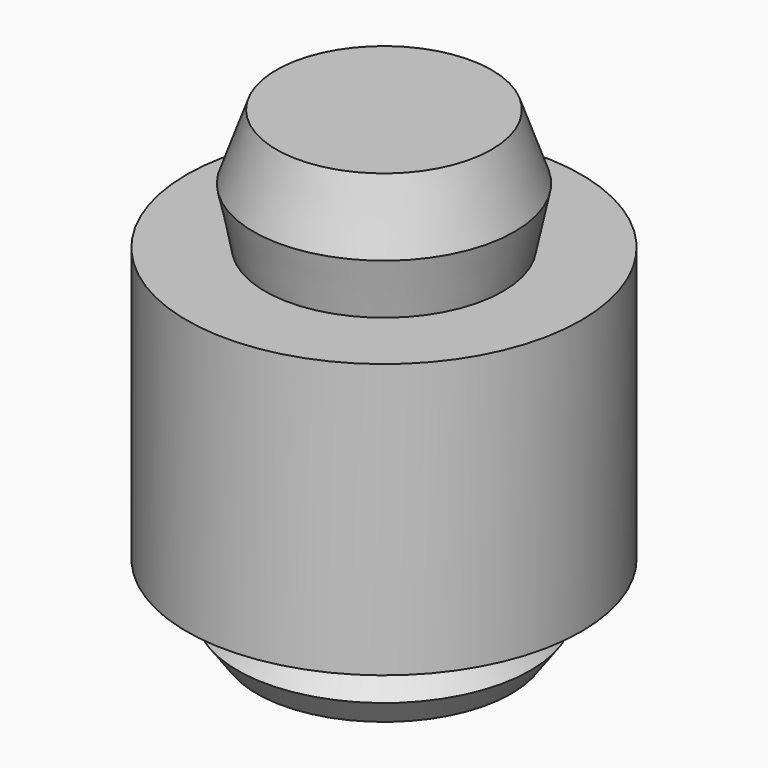
from build123d import *


with BuildPart() as f1:
    # F0 (on Front) → F1 (revolve)
    with BuildSketch(Plane.XZ):
        Polygon((0, 4.579124), (0, 3.175), (1.378153, 3.175), (1.513144, 3.826799), (1.248039, 4.579124), align=None)
        Polygon((1.465649, 0), (0, 0), (0, -0.897554), (1.474693, -0.897554), (1.697492, -0.588606), (1.465649, -0.329714), align=None)
        Polygon((0, 3.175), (0, 0), (1.465649, 0), (2.286, 0), (2.286, 3.175), (1.378153, 3.175), align=None)
    revolve(axis=Axis((0, 0, 2.419859), (0, 0, 1)))


solid = f1.part
